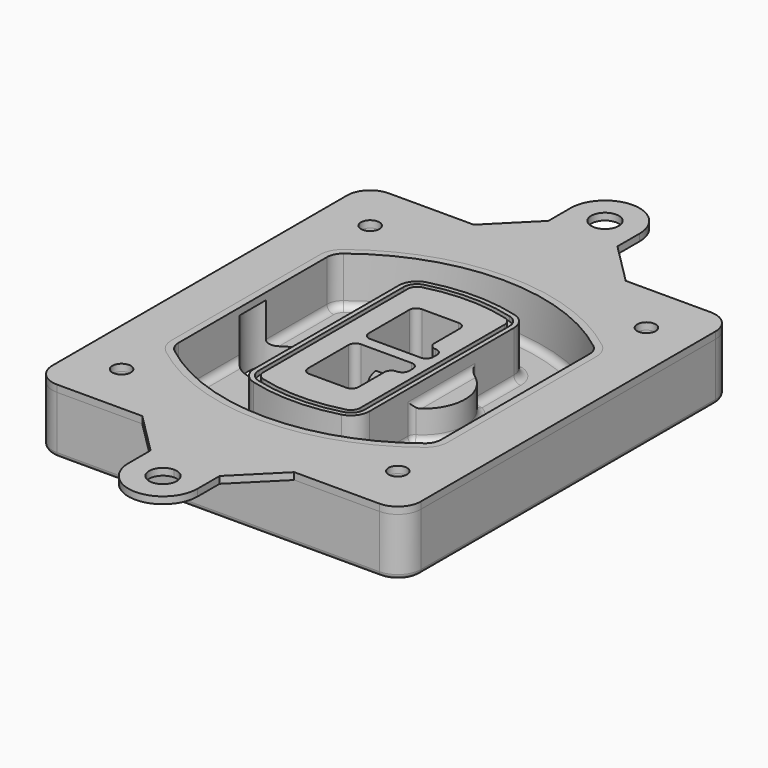
from build123d import *

# Parameters (mm, degrees)
F0_R      = 4
F1_DEPTH  = 25
F2_DEPTH  = 3
F3_DEPTH  = 18
F5_DEPTH  = 21
F6_DEPTH  = 2
F8_DEPTH  = 20
F9_DEPTH  = 16
F10_DEPTH = 25
F7_R      = 6
F7_R_2    = 4
F11_DEPTH = 6
F13_DEPTH = 9
F14_R     = 3
F15_R     = 2
F16_R     = 4
F17_DEPTH = 3


with BuildPart() as f1:
    # F0 (on Top) → F1 (new body)
    with BuildSketch(Plane.XY):
        with BuildLine():
            ThreePointArc((-80, -80), (-77.0710678119, -87.0710678119), (-70, -90))
            Line((-70, -90), (70, -90))
            ThreePointArc((70, -90), (77.0710678119, -87.0710678119), (80, -80))
            Line((80, -80), (80, 80))
            ThreePointArc((80, 80), (77.0710678119, 87.0710678119), (70, 90))
            Line((70, 90), (-70, 90))
            ThreePointArc((-70, 90), (-77.0710678119, 87.0710678119), (-80, 80))
            Line((-80, 80), (-80, -80))
        make_face()
        with Locations((-60, -67.5)):
            Circle(F0_R, mode=Mode.SUBTRACT)
        with Locations((60, -67.5)):
            Circle(F0_R, mode=Mode.SUBTRACT)
        with Locations((-60, 67.5)):
            Circle(F0_R, mode=Mode.SUBTRACT)
        with BuildLine():
            ThreePointArc((-64, 40.2934422872), (-62.5820384798, 46.4328484224), (-58.6153846154, 51.3286200352))
            ThreePointArc((-58.6153846154, 51.3286200352), (0, 71.5), (58.6153846154, 51.3286200352))
            ThreePointArc((58.6153846154, 51.3286200352), (62.5820384798, 46.4328484224), (64, 40.2934422872))
            Line((64, 40.2934422872), (64, -40.2934422872))
            ThreePointArc((64, -40.2934422872), (62.5820384798, -46.4328484224), (58.6153846154, -51.3286200352))
            ThreePointArc((58.6153846154, -51.3286200352), (0, -71.5), (-58.6153846154, -51.3286200352))
            ThreePointArc((-58.6153846154, -51.3286200352), (-62.5820384798, -46.4328484224), (-64, -40.2934422872))
            Line((-64, -40.2934422872), (-64, 40.2934422872))
        make_face(mode=Mode.SUBTRACT)
        with Locations((60, 67.5)):
            Circle(F0_R, mode=Mode.SUBTRACT)
        with BuildLine():
            ThreePointArc((58.6153846154, 51.3286200352), (0, 71.5), (-58.6153846154, 51.3286200352))
            ThreePointArc((-58.6153846154, 51.3286200352), (-62.5820384798, 46.4328484224), (-64, 40.2934422872))
            Line((-64, 40.2934422872), (-64, -40.2934422872))
            ThreePointArc((-64, -40.2934422872), (-62.5820384798, -46.4328484224), (-58.6153846154, -51.3286200352))
            ThreePointArc((-58.6153846154, -51.3286200352), (0, -71.5), (58.6153846154, -51.3286200352))
            ThreePointArc((58.6153846154, -51.3286200352), (62.5820384798, -46.4328484224), (64, -40.2934422872))
            Line((64, -40.2934422872), (64, 40.2934422872))
            ThreePointArc((64, 40.2934422872), (62.5820384798, 46.4328484224), (58.6153846154, 51.3286200352))
        make_face()
        with BuildLine():
            Line((-60, -40.2934422872), (-60, 40.2934422872))
            ThreePointArc((-60, 40.2934422872), (-58.9871703427, 44.6787323838), (-56.1538461538, 48.1757121072))
            ThreePointArc((-56.1538461538, 48.1757121072), (0, 67.5), (56.1538461538, 48.1757121072))
            ThreePointArc((56.1538461538, 48.1757121072), (58.9871703427, 44.6787323838), (60, 40.2934422872))
            Line((60, 40.2934422872), (60, -40.2934422872))
            ThreePointArc((60, -40.2934422872), (58.9871703427, -44.6787323838), (56.1538461538, -48.1757121072))
            ThreePointArc((56.1538461538, -48.1757121072), (0, -67.5), (-56.1538461538, -48.1757121072))
            ThreePointArc((-56.1538461538, -48.1757121072), (-58.9871703427, -44.6787323838), (-60, -40.2934422872))
        make_face(mode=Mode.SUBTRACT)
        with BuildLine():
            ThreePointArc((-56.1538461538, 48.1757121072), (-58.9871703427, 44.6787323838), (-60, 40.2934422872))
            Line((-60, 40.2934422872), (-60, -40.2934422872))
            ThreePointArc((-60, -40.2934422872), (-58.9871703427, -44.6787323838), (-56.1538461538, -48.1757121072))
            ThreePointArc((-56.1538461538, -48.1757121072), (0, -67.5), (56.1538461538, -48.1757121072))
            ThreePointArc((56.1538461538, -48.1757121072), (58.9871703427, -44.6787323838), (60, -40.2934422872))
            Line((60, -40.2934422872), (60, 40.2934422872))
            ThreePointArc((60, 40.2934422872), (58.9871703427, 44.6787323838), (56.1538461538, 48.1757121072))
            ThreePointArc((56.1538461538, 48.1757121072), (0, 67.5), (-56.1538461538, 48.1757121072))
        make_face()
        with BuildLine():
            ThreePointArc((54.3076923077, 45.8110311612), (56.2910192399, 43.3631453548), (57, 40.2934422872))
            Line((57, 40.2934422872), (57, -40.2934422872))
            ThreePointArc((57, -40.2934422872), (56.2910192399, -43.3631453548), (54.3076923077, -45.8110311612))
            ThreePointArc((54.3076923077, -45.8110311612), (0, -64.5), (-54.3076923077, -45.8110311612))
            ThreePointArc((-54.3076923077, -45.8110311612), (-56.2910192399, -43.3631453548), (-57, -40.2934422872))
            Line((-57, -40.2934422872), (-57, 40.2934422872))
            ThreePointArc((-57, 40.2934422872), (-56.2910192399, 43.3631453548), (-54.3076923077, 45.8110311612))
            ThreePointArc((-54.3076923077, 45.8110311612), (0, 64.5), (54.3076923077, 45.8110311612))
        make_face(mode=Mode.SUBTRACT)
        with BuildLine():
            Line((57, -40.2934422872), (57, 40.2934422872))
            ThreePointArc((57, 40.2934422872), (56.2910192399, 43.3631453548), (54.3076923077, 45.8110311612))
            ThreePointArc((54.3076923077, 45.8110311612), (0, 64.5), (-54.3076923077, 45.8110311612))
            ThreePointArc((-54.3076923077, 45.8110311612), (-56.2910192399, 43.3631453548), (-57, 40.2934422872))
            Line((-57, 40.2934422872), (-57, -40.2934422872))
            ThreePointArc((-57, -40.2934422872), (-56.2910192399, -43.3631453548), (-54.3076923077, -45.8110311612))
            ThreePointArc((-54.3076923077, -45.8110311612), (0, -64.5), (54.3076923077, -45.8110311612))
            ThreePointArc((54.3076923077, -45.8110311612), (56.2910192399, -43.3631453548), (57, -40.2934422872))
        make_face()
    extrude(amount=-F1_DEPTH)

    # F0 (on Top) → F2 (join)
    with BuildSketch(Plane.XY):
        with BuildLine():
            ThreePointArc((-56.1538461538, 48.1757121072), (-58.9871703427, 44.6787323838), (-60, 40.2934422872))
            Line((-60, 40.2934422872), (-60, -40.2934422872))
            ThreePointArc((-60, -40.2934422872), (-58.9871703427, -44.6787323838), (-56.1538461538, -48.1757121072))
            ThreePointArc((-56.1538461538, -48.1757121072), (0, -67.5), (56.1538461538, -48.1757121072))
            ThreePointArc((56.1538461538, -48.1757121072), (58.9871703427, -44.6787323838), (60, -40.2934422872))
            Line((60, -40.2934422872), (60, 40.2934422872))
            ThreePointArc((60, 40.2934422872), (58.9871703427, 44.6787323838), (56.1538461538, 48.1757121072))
            ThreePointArc((56.1538461538, 48.1757121072), (0, 67.5), (-56.1538461538, 48.1757121072))
        make_face()
        with BuildLine():
            ThreePointArc((54.3076923077, 45.8110311612), (56.2910192399, 43.3631453548), (57, 40.2934422872))
            Line((57, 40.2934422872), (57, -40.2934422872))
            ThreePointArc((57, -40.2934422872), (56.2910192399, -43.3631453548), (54.3076923077, -45.8110311612))
            ThreePointArc((54.3076923077, -45.8110311612), (0, -64.5), (-54.3076923077, -45.8110311612))
            ThreePointArc((-54.3076923077, -45.8110311612), (-56.2910192399, -43.3631453548), (-57, -40.2934422872))
            Line((-57, -40.2934422872), (-57, 40.2934422872))
            ThreePointArc((-57, 40.2934422872), (-56.2910192399, 43.3631453548), (-54.3076923077, 45.8110311612))
            ThreePointArc((-54.3076923077, 45.8110311612), (0, 64.5), (54.3076923077, 45.8110311612))
        make_face(mode=Mode.SUBTRACT)
    extrude(amount=F2_DEPTH)

    # F0 (on Top) → F3 (cut)
    with BuildSketch(Plane.XY):
        with BuildLine():
            Line((57, -40.2934422872), (57, 40.2934422872))
            ThreePointArc((57, 40.2934422872), (56.2910192399, 43.3631453548), (54.3076923077, 45.8110311612))
            ThreePointArc((54.3076923077, 45.8110311612), (0, 64.5), (-54.3076923077, 45.8110311612))
            ThreePointArc((-54.3076923077, 45.8110311612), (-56.2910192399, 43.3631453548), (-57, 40.2934422872))
            Line((-57, 40.2934422872), (-57, -40.2934422872))
            ThreePointArc((-57, -40.2934422872), (-56.2910192399, -43.3631453548), (-54.3076923077, -45.8110311612))
            ThreePointArc((-54.3076923077, -45.8110311612), (0, -64.5), (54.3076923077, -45.8110311612))
            ThreePointArc((54.3076923077, -45.8110311612), (56.2910192399, -43.3631453548), (57, -40.2934422872))
        make_face()
    extrude(amount=-F3_DEPTH, mode=Mode.SUBTRACT)

    # F4 (on face) → F5 (join, through all)
    with BuildSketch(Plane.XY.offset(3)):
        with BuildLine():
            ThreePointArc((-25, -39.2465276821), (-23.3511545998, -44.1109737193), (-19.0842911877, -46.9702398883))
            ThreePointArc((-19.0842911877, -46.9702398883), (0, -49.5), (19.0842911877, -46.9702398883))
            ThreePointArc((19.0842911877, -46.9702398883), (23.3511545998, -44.1109737193), (25, -39.2465276821))
            Line((25, -39.2465276821), (25, 39.2465276821))
            ThreePointArc((25, 39.2465276821), (23.3511545998, 44.1109737193), (19.0842911877, 46.9702398883))
            ThreePointArc((19.0842911877, 46.9702398883), (0, 49.5), (-19.0842911877, 46.9702398883))
            ThreePointArc((-19.0842911877, 46.9702398883), (-23.3511545998, 44.1109737193), (-25, 39.2465276821))
            Line((-25, 39.2465276821), (-25, -39.2465276821))
        make_face()
        with BuildLine():
            ThreePointArc((18.5632183908, 45.0393118368), (21.7633659499, 42.89486221), (23, 39.2465276821))
            Line((23, 39.2465276821), (23, -39.2465276821))
            ThreePointArc((23, -39.2465276821), (21.7633659499, -42.89486221), (18.5632183908, -45.0393118368))
            ThreePointArc((18.5632183908, -45.0393118368), (0, -47.5), (-18.5632183908, -45.0393118368))
            ThreePointArc((-18.5632183908, -45.0393118368), (-21.7633659499, -42.89486221), (-23, -39.2465276821))
            Line((-23, -39.2465276821), (-23, 39.2465276821))
            ThreePointArc((-23, 39.2465276821), (-21.7633659499, 42.89486221), (-18.5632183908, 45.0393118368))
            ThreePointArc((-18.5632183908, 45.0393118368), (0, 47.5), (18.5632183908, 45.0393118368))
        make_face(mode=Mode.SUBTRACT)
        with BuildLine():
            Line((23, -39.2465276821), (23, 39.2465276821))
            ThreePointArc((23, 39.2465276821), (21.7633659499, 42.89486221), (18.5632183908, 45.0393118368))
            ThreePointArc((18.5632183908, 45.0393118368), (0, 47.5), (-18.5632183908, 45.0393118368))
            ThreePointArc((-18.5632183908, 45.0393118368), (-21.7633659499, 42.89486221), (-23, 39.2465276821))
            Line((-23, 39.2465276821), (-23, -39.2465276821))
            ThreePointArc((-23, -39.2465276821), (-21.7633659499, -42.89486221), (-18.5632183908, -45.0393118368))
            ThreePointArc((-18.5632183908, -45.0393118368), (0, -47.5), (18.5632183908, -45.0393118368))
            ThreePointArc((18.5632183908, -45.0393118368), (21.7633659499, -42.89486221), (23, -39.2465276821))
        make_face()
        with BuildLine():
            ThreePointArc((18.0421455939, 43.1083837852), (20.1755772999, 41.6787507007), (21, 39.2465276821))
            Line((21, 39.2465276821), (21, -39.2465276821))
            ThreePointArc((21, -39.2465276821), (20.1755772999, -41.6787507007), (18.0421455939, -43.1083837852))
            ThreePointArc((18.0421455939, -43.1083837852), (0, -45.5), (-18.0421455939, -43.1083837852))
            ThreePointArc((-18.0421455939, -43.1083837852), (-20.1755772999, -41.6787507007), (-21, -39.2465276821))
            Line((-21, -39.2465276821), (-21, 39.2465276821))
            ThreePointArc((-21, 39.2465276821), (-20.1755772999, 41.6787507007), (-18.0421455939, 43.1083837852))
            ThreePointArc((-18.0421455939, 43.1083837852), (0, 45.5), (18.0421455939, 43.1083837852))
        make_face(mode=Mode.SUBTRACT)
        with BuildLine():
            Line((21, -39.2465276821), (21, 39.2465276821))
            ThreePointArc((21, 39.2465276821), (20.1755772999, 41.6787507007), (18.0421455939, 43.1083837852))
            ThreePointArc((18.0421455939, 43.1083837852), (0, 45.5), (-18.0421455939, 43.1083837852))
            ThreePointArc((-18.0421455939, 43.1083837852), (-20.1755772999, 41.6787507007), (-21, 39.2465276821))
            Line((-21, 39.2465276821), (-21, -39.2465276821))
            ThreePointArc((-21, -39.2465276821), (-20.1755772999, -41.6787507007), (-18.0421455939, -43.1083837852))
            ThreePointArc((-18.0421455939, -43.1083837852), (0, -45.5), (18.0421455939, -43.1083837852))
            ThreePointArc((18.0421455939, -43.1083837852), (20.1755772999, -41.6787507007), (21, -39.2465276821))
        make_face()
        with BuildLine():
            Line((-8, -2.5), (14, -2.5))
            ThreePointArc((14, -2.5), (16.1213203436, -3.3786796564), (17, -5.5))
            Line((17, -5.5), (17, -7.5))
            ThreePointArc((17, -7.5), (16.1213203436, -9.6213203436), (14, -10.5))
            ThreePointArc((14, -10.5), (11.8786796564, -11.3786796564), (11, -13.5))
            Line((11, -13.5), (11, -27.5))
            ThreePointArc((11, -27.5), (10.1213203436, -29.6213203436), (8, -30.5))
            Line((8, -30.5), (-8, -30.5))
            ThreePointArc((-8, -30.5), (-10.1213203436, -29.6213203436), (-11, -27.5))
            Line((-11, -27.5), (-11, -5.5))
            ThreePointArc((-11, -5.5), (-10.1213203436, -3.3786796564), (-8, -2.5))
        make_face(mode=Mode.SUBTRACT)
        with BuildLine():
            ThreePointArc((-8, 2.5), (-10.1213203436, 3.3786796564), (-11, 5.5))
            Line((-11, 5.5), (-11, 27.5))
            ThreePointArc((-11, 27.5), (-10.1213203436, 29.6213203436), (-8, 30.5))
            Line((-8, 30.5), (8, 30.5))
            ThreePointArc((8, 30.5), (10.1213203436, 29.6213203436), (11, 27.5))
            Line((11, 27.5), (11, 13.5))
            ThreePointArc((11, 13.5), (11.8786796564, 11.3786796564), (14, 10.5))
            ThreePointArc((14, 10.5), (16.1213203436, 9.6213203436), (17, 7.5))
            Line((17, 7.5), (17, 5.5))
            ThreePointArc((17, 5.5), (16.1213203436, 3.3786796564), (14, 2.5))
            Line((14, 2.5), (-8, 2.5))
        make_face(mode=Mode.SUBTRACT)
    extrude(amount=-F5_DEPTH)

    # F4 (on face) → F6 (cut)
    with BuildSketch(Plane.XY.offset(3)):
        with BuildLine():
            Line((23, -39.2465276821), (23, 39.2465276821))
            ThreePointArc((23, 39.2465276821), (21.7633659499, 42.89486221), (18.5632183908, 45.0393118368))
            ThreePointArc((18.5632183908, 45.0393118368), (0, 47.5), (-18.5632183908, 45.0393118368))
            ThreePointArc((-18.5632183908, 45.0393118368), (-21.7633659499, 42.89486221), (-23, 39.2465276821))
            Line((-23, 39.2465276821), (-23, -39.2465276821))
            ThreePointArc((-23, -39.2465276821), (-21.7633659499, -42.89486221), (-18.5632183908, -45.0393118368))
            ThreePointArc((-18.5632183908, -45.0393118368), (0, -47.5), (18.5632183908, -45.0393118368))
            ThreePointArc((18.5632183908, -45.0393118368), (21.7633659499, -42.89486221), (23, -39.2465276821))
        make_face()
        with BuildLine():
            ThreePointArc((18.0421455939, 43.1083837852), (20.1755772999, 41.6787507007), (21, 39.2465276821))
            Line((21, 39.2465276821), (21, -39.2465276821))
            ThreePointArc((21, -39.2465276821), (20.1755772999, -41.6787507007), (18.0421455939, -43.1083837852))
            ThreePointArc((18.0421455939, -43.1083837852), (0, -45.5), (-18.0421455939, -43.1083837852))
            ThreePointArc((-18.0421455939, -43.1083837852), (-20.1755772999, -41.6787507007), (-21, -39.2465276821))
            Line((-21, -39.2465276821), (-21, 39.2465276821))
            ThreePointArc((-21, 39.2465276821), (-20.1755772999, 41.6787507007), (-18.0421455939, 43.1083837852))
            ThreePointArc((-18.0421455939, 43.1083837852), (0, 45.5), (18.0421455939, 43.1083837852))
        make_face(mode=Mode.SUBTRACT)
    extrude(amount=-F6_DEPTH, mode=Mode.SUBTRACT)

    # F7 (on face) → F8 (join)
    with BuildSketch(Plane(origin=(0, 0, -25), x_dir=(1, 0, 0), z_dir=(0, 0, -1))):
        with BuildLine():
            ThreePointArc((3.28842436, 0), (16.7567035675, 13.4682792075), (30.224982775, 0))
            Line((30.224982775, 0), (35.224982775, 0))
            ThreePointArc((35.224982775, 0), (16.7567035675, 18.4682792075), (-1.71157564, 0))
            Line((-1.71157564, 0), (3.28842436, 0))
        make_face()
        with BuildLine():
            Line((3.28842436, 0), (30.224982775, 0))
            ThreePointArc((30.224982775, 0), (16.7567035675, 13.4682792075), (3.28842436, 0))
        make_face()
        with BuildLine():
            ThreePointArc((3.28842436, 0), (16.7567035675, -13.4682792075), (30.224982775, 0))
            Line((30.224982775, 0), (3.28842436, 0))
        make_face()
        with BuildLine():
            Line((35.224982775, 0), (30.224982775, 0))
            ThreePointArc((30.224982775, 0), (16.7567035675, -13.4682792075), (3.28842436, 0))
            Line((3.28842436, 0), (-1.71157564, 0))
            ThreePointArc((-1.71157564, 0), (16.7567035675, -18.4682792075), (35.224982775, 0))
        make_face()
    extrude(amount=-F8_DEPTH)

    # F7 (on face) → F9 (cut)
    with BuildSketch(Plane(origin=(0, 0, -25), x_dir=(1, 0, 0), z_dir=(0, 0, -1))):
        with BuildLine():
            Line((3.28842436, 0), (30.224982775, 0))
            ThreePointArc((30.224982775, 0), (16.7567035675, 13.4682792075), (3.28842436, 0))
        make_face()
        with BuildLine():
            ThreePointArc((3.28842436, 0), (16.7567035675, -13.4682792075), (30.224982775, 0))
            Line((30.224982775, 0), (3.28842436, 0))
        make_face()
    extrude(amount=-F9_DEPTH, mode=Mode.SUBTRACT)

    # F7 (on face) → F10 (cut)
    with BuildSketch(Plane(origin=(0, 0, -25), x_dir=(1, 0, 0), z_dir=(0, 0, -1))):
        with BuildLine():
            Line((-59.0318229325, 0), (-32.0952645175, 0))
            ThreePointArc((-32.0952645175, 0), (-45.563543725, 13.4682792075), (-59.0318229325, 0))
        make_face()
        with BuildLine():
            ThreePointArc((-59.0318229325, 0), (-45.563543725, -13.4682792075), (-32.0952645175, 0))
            Line((-32.0952645175, 0), (-59.0318229325, 0))
        make_face()
    extrude(amount=-F10_DEPTH, mode=Mode.SUBTRACT)

    # F7 (on face) → F11 (cut)
    with BuildSketch(Plane(origin=(0, 0, -25), x_dir=(1, 0, 0), z_dir=(0, 0, -1))):
        with Locations((60, -67.5)):
            Circle(F7_R)
        with Locations((60, -67.5)):
            Circle(F7_R_2, mode=Mode.SUBTRACT)
        with Locations((60, -67.5)):
            Circle(F7_R)
        with Locations((60, -67.5)):
            Circle(F7_R_2, mode=Mode.SUBTRACT)
        with Locations((-60, -67.5)):
            Circle(F7_R)
        with Locations((-60, -67.5)):
            Circle(F7_R_2, mode=Mode.SUBTRACT)
        with Locations((-60, -67.5)):
            Circle(F7_R)
        with Locations((-60, -67.5)):
            Circle(F7_R_2, mode=Mode.SUBTRACT)
        with Locations((-60, 67.5)):
            Circle(F7_R)
        with Locations((-60, 67.5)):
            Circle(F7_R_2, mode=Mode.SUBTRACT)
        with Locations((-60, 67.5)):
            Circle(F7_R)
        with Locations((-60, 67.5)):
            Circle(F7_R_2, mode=Mode.SUBTRACT)
        with Locations((60, 67.5)):
            Circle(F7_R)
        with Locations((60, 67.5)):
            Circle(F7_R_2, mode=Mode.SUBTRACT)
        with Locations((60, 67.5)):
            Circle(F7_R)
        with Locations((60, 67.5)):
            Circle(F7_R_2, mode=Mode.SUBTRACT)
    extrude(amount=-F11_DEPTH, mode=Mode.SUBTRACT)

    # F12 (on face) → F13 (cut, through all)
    with BuildSketch(Plane(origin=(0, 0, -9), x_dir=(1, 0, 0), z_dir=(0, 0, -1))):
        with BuildLine():
            Line((11, 13.5), (11, 17.5481537753))
            ThreePointArc((11, 17.5481537753), (2.5696536419, 11.8239143813), (-1.5415842455, 2.5))
            Line((-1.5415842455, 2.5), (3.5224848595, 2.5))
            ThreePointArc((3.5224848595, 2.5), (6.1857188154, 8.3455872281), (11.2536447004, 12.2927168648))
            ThreePointArc((11.2536447004, 12.2927168648), (11.0640958889, 12.8831798879), (11, 13.5))
        make_face()
        with BuildLine():
            ThreePointArc((11.2536447004, -12.2927168648), (6.1857188154, -8.3455872281), (3.5224848595, -2.5))
            Line((3.5224848595, -2.5), (-1.5415842455, -2.5))
            ThreePointArc((-1.5415842455, -2.5), (2.5696536419, -11.8239143813), (11, -17.5481537753))
            Line((11, -17.5481537753), (11, -13.5))
            ThreePointArc((11, -13.5), (11.0640958889, -12.8831798879), (11.2536447004, -12.2927168648))
        make_face()
        with BuildLine():
            ThreePointArc((11.2536447004, 12.2927168648), (6.1857188154, 8.3455872281), (3.5224848595, 2.5))
            Line((3.5224848595, 2.5), (14, 2.5))
            ThreePointArc((14, 2.5), (16.1213203436, 3.3786796564), (17, 5.5))
            Line((17, 5.5), (17, 7.5))
            ThreePointArc((17, 7.5), (16.1213203436, 9.6213203436), (14, 10.5))
            ThreePointArc((14, 10.5), (12.3601599782, 10.9878446101), (11.2536447004, 12.2927168648))
        make_face()
        with BuildLine():
            Line((14, -2.5), (3.5224848595, -2.5))
            ThreePointArc((3.5224848595, -2.5), (6.1857188154, -8.3455872281), (11.2536447004, -12.2927168648))
            ThreePointArc((11.2536447004, -12.2927168648), (12.3601599782, -10.9878446101), (14, -10.5))
            ThreePointArc((14, -10.5), (16.1213203436, -9.6213203436), (17, -7.5))
            Line((17, -7.5), (17, -5.5))
            ThreePointArc((17, -5.5), (16.1213203436, -3.3786796564), (14, -2.5))
        make_face()
    extrude(amount=F13_DEPTH, mode=Mode.SUBTRACT)

    # F14
    f14_edges = [f1.edges().sort_by_distance(p)[0] for p in [
        (-57, -23.703476, -18),
        (-57, 23.703476, -18),
        (25, 0, -5),
        (25, 16.526506, -11.5),
        (25, -16.526506, -11.5),
        (25, -27.886517, -18),
        (35.224983, 0, -18),
    ]]
    fillet(f14_edges, radius=F14_R)

    # F15
    f15_edges = [f1.edges().sort_by_distance(p)[0] for p in [
        (0, -90, -25),
    ]]
    fillet(f15_edges, radius=F15_R)


with BuildPart() as f17:
    # F16 (on face) → F17 (new body, through all)
    with BuildSketch(Plane.XY):
        with BuildLine():
            Line((70, 90), (33, 90))
            Line((33, 90), (0, 90))
            Line((0, 90), (-32.9952692627, 90))
            Line((-32.9952692627, 90), (-70, 90))
            ThreePointArc((-70, 90), (-77.0710678119, 87.0710678119), (-80, 80))
            Line((-80, 80), (-80, -80))
            ThreePointArc((-80, -80), (-77.0710678119, -87.0710678119), (-70, -90))
            Line((-70, -90), (-32.9952692627, -90))
            Line((-32.9952692627, -90), (0, -90))
            Line((0, -90), (33, -90))
            Line((33, -90), (70, -90))
            ThreePointArc((70, -90), (77.0710678119, -87.0710678119), (80, -80))
            Line((80, -80), (80, 80))
            ThreePointArc((80, 80), (77.0710678119, 87.0710678119), (70, 90))
        make_face()
        with Locations((-60, -67.5)):
            Circle(F16_R, mode=Mode.SUBTRACT)
        with Locations((60, -67.5)):
            Circle(F16_R, mode=Mode.SUBTRACT)
        with Locations((-60, 67.5)):
            Circle(F16_R, mode=Mode.SUBTRACT)
        with BuildLine():
            ThreePointArc((-60, 40.2934422872), (-58.9871703427, 44.6787323838), (-56.1538461538, 48.1757121072))
            ThreePointArc((-56.1538461538, 48.1757121072), (0, 67.5), (56.1538461538, 48.1757121072))
            ThreePointArc((56.1538461538, 48.1757121072), (58.9871703427, 44.6787323838), (60, 40.2934422872))
            Line((60, 40.2934422872), (60, -40.2934422872))
            ThreePointArc((60, -40.2934422872), (58.9871703427, -44.6787323838), (56.1538461538, -48.1757121072))
            ThreePointArc((56.1538461538, -48.1757121072), (0, -67.5), (-56.1538461538, -48.1757121072))
            ThreePointArc((-56.1538461538, -48.1757121072), (-58.9871703427, -44.6787323838), (-60, -40.2934422872))
            Line((-60, -40.2934422872), (-60, 40.2934422872))
        make_face(mode=Mode.SUBTRACT)
        with Locations((60, 67.5)):
            Circle(F16_R, mode=Mode.SUBTRACT)
        with BuildLine():
            Line((15, -108), (33, -90))
            Line((33, -90), (0, -90))
            Line((0, -90), (-32.9952692627, -90))
            Line((-32.9952692627, -90), (-14.9952692627, -108))
            Line((-14.9952692627, -108), (-14.9952692627, -120.3766958185))
            ThreePointArc((-14.9952692627, -120.3766958185), (0.1883627614, -134.998817269), (15, -120))
            Line((15, -120), (15, -108))
        make_face()
        with BuildLine():
            ThreePointArc((6, -120), (-4.2426406871, -124.2426406871), (0, -114))
            ThreePointArc((0, -114), (4.2426406871, -115.7573593129), (6, -120))
        make_face(mode=Mode.SUBTRACT)
        with BuildLine():
            Line((0, 90), (33, 90))
            Line((33, 90), (15, 108))
            Line((15, 108), (15, 120))
            ThreePointArc((15, 120), (0.1883627614, 134.998817269), (-14.9952692627, 120.3766958185))
            Line((-14.9952692627, 120.3766958185), (-14.9952692627, 108))
            Line((-14.9952692627, 108), (-32.9952692627, 90))
            Line((-32.9952692627, 90), (0, 90))
        make_face()
        with BuildLine():
            ThreePointArc((6, 120), (4.2426406871, 115.7573593129), (0, 114))
            ThreePointArc((0, 114), (-4.2426406871, 124.2426406871), (6, 120))
        make_face(mode=Mode.SUBTRACT)
    extrude(amount=F17_DEPTH)


solid = Compound([f1.part, f17.part])
